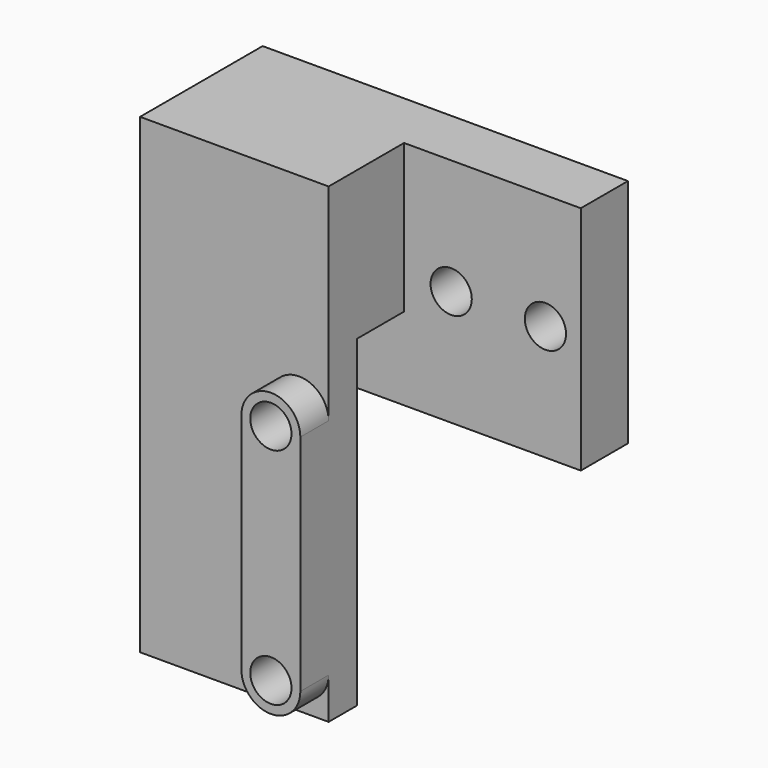
from build123d import *

# Parameters (mm, degrees)
F0_W      = 16
F0_H      = 40
F0_R      = 1.75
F1_DEPTH  = 3
F2_R      = 1.75
F3_DEPTH  = 3
F4_W      = 16
F4_H      = 19.6
F4_R      = 1.75
F5_DEPTH  = 10
F6_W      = 5
F6_H      = 19.6
F7_DEPTH  = 15
F8_R      = 1.75
F9_DEPTH  = 5
F10_W     = 7
F10_H     = 5
F11_DEPTH = 7
F12_R     = 1.75
F13_DEPTH = 5


with BuildPart() as f1:
    # F0 (on Front) → F1 (new body)
    with BuildSketch(Plane.XZ):
        with Locations((8, 20)):
            Rectangle(F0_W, F0_H)
        with Locations((13.5, 3.5)):
            Circle(F0_R, mode=Mode.SUBTRACT)
        with Locations((13.5, 22.5)):
            Circle(F0_R, mode=Mode.SUBTRACT)
    extrude(amount=F1_DEPTH)

    # F2 (on face) → F3 (join)
    with BuildSketch(Plane.XZ.offset(3)):
        with BuildLine():
            ThreePointArc((11, 3.5), (13.5, 1), (16, 3.5))
            Line((16, 3.5), (16, 22.5))
            ThreePointArc((16, 22.5), (13.5, 25), (11, 22.5))
            Line((11, 22.5), (11, 3.5))
        make_face()
        with Locations((13.5, 3.5)):
            Circle(F2_R, mode=Mode.SUBTRACT)
        with Locations((13.5, 22.5)):
            Circle(F2_R, mode=Mode.SUBTRACT)
    extrude(amount=F3_DEPTH)

    # F4 (on face) → F5 (join)
    with BuildSketch(Plane(origin=(0, 0, 0), x_dir=(-1, 0, 0), z_dir=(0, 1, 0))):
        with Locations((-8, 30.2)):
            Rectangle(F4_W, F4_H)
        with Locations((-13.5, 22.5)):
            Circle(F4_R, mode=Mode.SUBTRACT)
    extrude(amount=F5_DEPTH)

    # F6 (on face) → F7 (join)
    with BuildSketch(Plane.YZ.offset(16)):
        with Locations((7.5, 30.2)):
            Rectangle(F6_W, F6_H)
    extrude(amount=F7_DEPTH)

    # F8 (on face) → F9 (cut, through all)
    with BuildSketch(Plane.XZ.offset(-5)):
        with Locations((20, 30.2)):
            Circle(F8_R)
        with Locations((28, 30.2)):
            Circle(F8_R)
    extrude(amount=-F9_DEPTH, mode=Mode.SUBTRACT)

    # F10 (on face) → F11 (cut)
    with BuildSketch(Plane(origin=(0, 0, 20.4), x_dir=(1, 0, 0), z_dir=(0, 0, -1))):
        with Locations((12.5, -2.5)):
            Rectangle(F10_W, F10_H)
    extrude(amount=-F11_DEPTH, mode=Mode.SUBTRACT)

    # F12 (on face) → F13 (join, through all)
    with BuildSketch(Plane.XZ.offset(-5)):
        with Locations((13.5, 22.5)):
            Circle(F12_R)
    extrude(amount=-F13_DEPTH)


solid = f1.part
